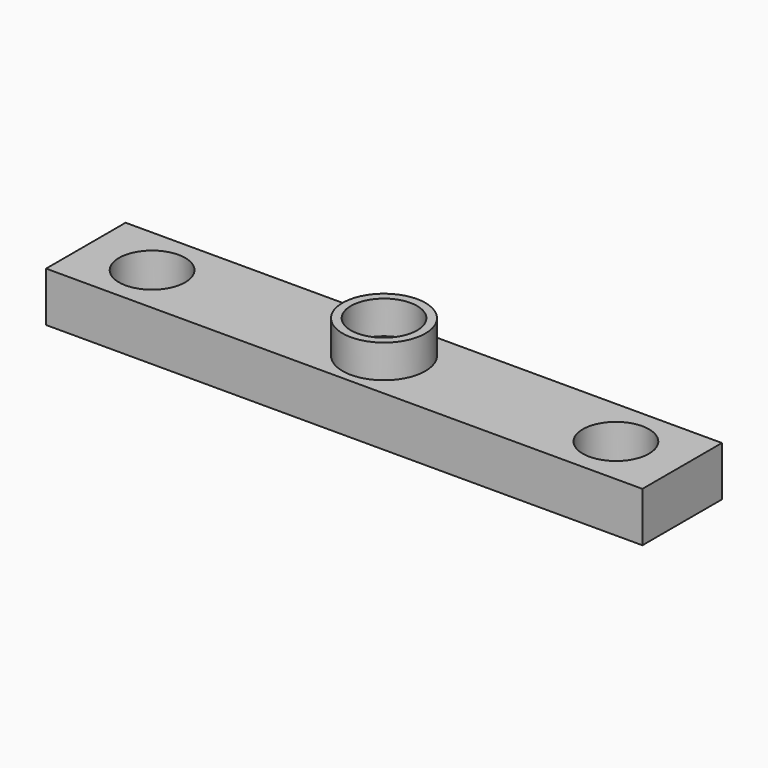
from build123d import *

# Parameters (mm, degrees)
F0_W     = 228.6
F0_H     = 38.1
F0_R     = 12.7
F1_DEPTH = 19.05
F2_R     = 15.875
F2_R_2   = 12.7
F3_DEPTH = 12.7


with BuildPart() as f1:
    # F0 (on Top) → F1 (new body)
    with BuildSketch(Plane.XY):
        Rectangle(F0_W, F0_H)
        with Locations((-88.9, 0)):
            Circle(F0_R, mode=Mode.SUBTRACT)
        with Locations((88.9, 0)):
            Circle(F0_R, mode=Mode.SUBTRACT)
    extrude(amount=F1_DEPTH)

    # F2 (on face) → F3 (join)
    with BuildSketch(Plane.XY.offset(19.05)):
        Circle(F2_R)
        Circle(F2_R_2, mode=Mode.SUBTRACT)
    extrude(amount=F3_DEPTH)


solid = f1.part
